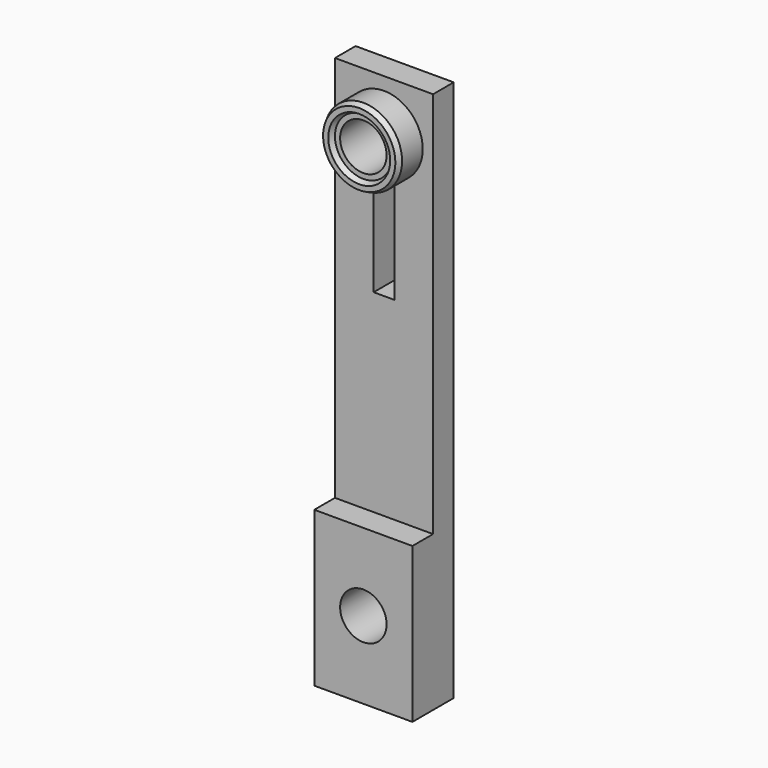
from build123d import *

# Parameters (mm, degrees)
F0_W      = 19
F0_H      = 105
F1_DEPTH  = 5
F2_R      = 7.5
F3_DEPTH  = 5
F6_R      = 4.5
F7_DEPTH  = 10.001
F8_W      = 19
F8_H      = 30
F9_DEPTH  = 10
F10_R     = 4.5
F11_DEPTH = 11.001
F12_W     = 4
F12_H     = 20
F13_DEPTH = 5


with BuildPart() as f1:
    # F0 (on Front) → F1 (new body)
    with BuildSketch(Plane.XZ):
        with Locations((0, -42.5)):
            Rectangle(F0_W, F0_H)
    extrude(amount=F1_DEPTH)

    # F2 (on face) → F3 (join)
    with BuildSketch(Plane.XZ.offset(5)):
        Circle(F2_R)
    extrude(amount=F3_DEPTH)

    # F4 (on Right) → F5 (revolve)
    with BuildSketch(Plane.YZ):
        Polygon((-10, 5.5), (-10, 7.5), (-11, 7), (-11, 6), align=None)
    revolve(axis=Axis((0, -10.5, 0), (0, 1, 0)))

    # F6 (on face) → F7 (cut, through all)
    with BuildSketch(Plane.XZ.offset(10)):
        Circle(F6_R)
    extrude(amount=-F7_DEPTH, mode=Mode.SUBTRACT)

    # F8 (on face) → F9 (join)
    with BuildSketch(Plane(origin=(0, 0, 0), x_dir=(-1, 0, 0), z_dir=(0, 1, 0))):
        with Locations((0, -80)):
            Rectangle(F8_W, F8_H)
    extrude(amount=-F9_DEPTH)

    # F10 (on face) → F11 (cut, through all)
    with BuildSketch(Plane.XZ):
        with Locations((0, -80)):
            Circle(F10_R)
    extrude(amount=F11_DEPTH, mode=Mode.SUBTRACT)

    # F12 (on face) → F13 (cut, through all)
    with BuildSketch(Plane.XZ.offset(5)):
        with Locations((0, -17.5)):
            Rectangle(F12_W, F12_H)
    extrude(amount=-F13_DEPTH, mode=Mode.SUBTRACT)


solid = f1.part
